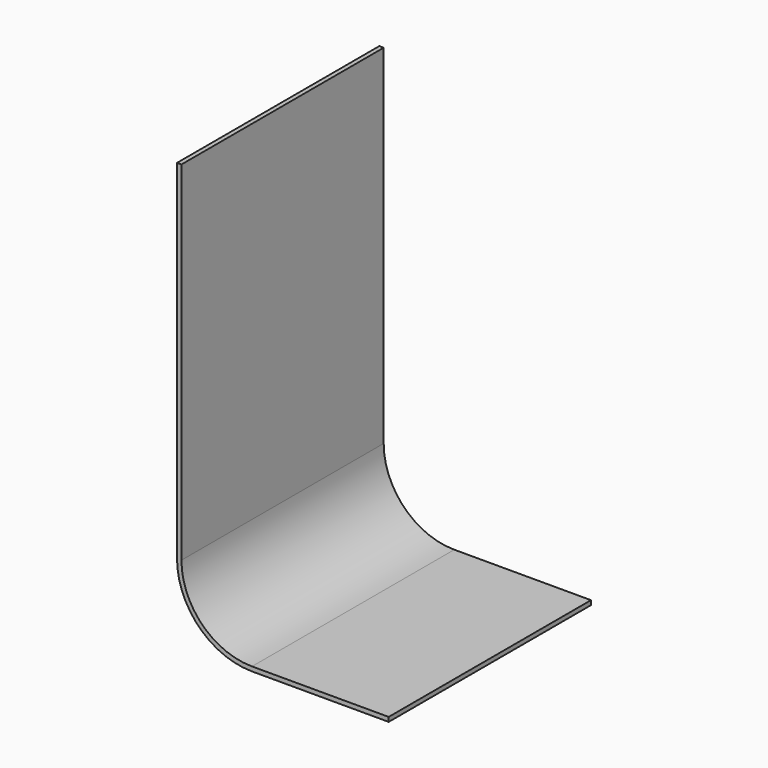
from build123d import *

# Parameters (mm, degrees)
F1_DEPTH = 273.05
F2_SCALE = 0.5


with BuildPart() as f1:
    # F0 (on Front) → F1 (new body, symmetric)
    with BuildSketch(Plane.XZ):
        with BuildLine():
            Line((0, 914.4), (0, 161.925))
            ThreePointArc((0, 161.925), (47.4267344564, 47.4267344564), (161.925, 0))
            Line((161.925, 0), (457.2, 0))
            Line((457.2, 0), (457.2, 9.525))
            Line((457.2, 9.525), (161.925, 9.525))
            ThreePointArc((161.925, 9.525), (54.1619265472, 54.1619265472), (9.525, 161.925))
            Line((9.525, 161.925), (9.525, 914.4))
            Line((9.525, 914.4), (0, 914.4))
        make_face()
    extrude(amount=F1_DEPTH, both=True)


with BuildPart() as f1_1:
    # F2: moved
    add(f1.part.scale(F2_SCALE))


solid = f1_1.part
